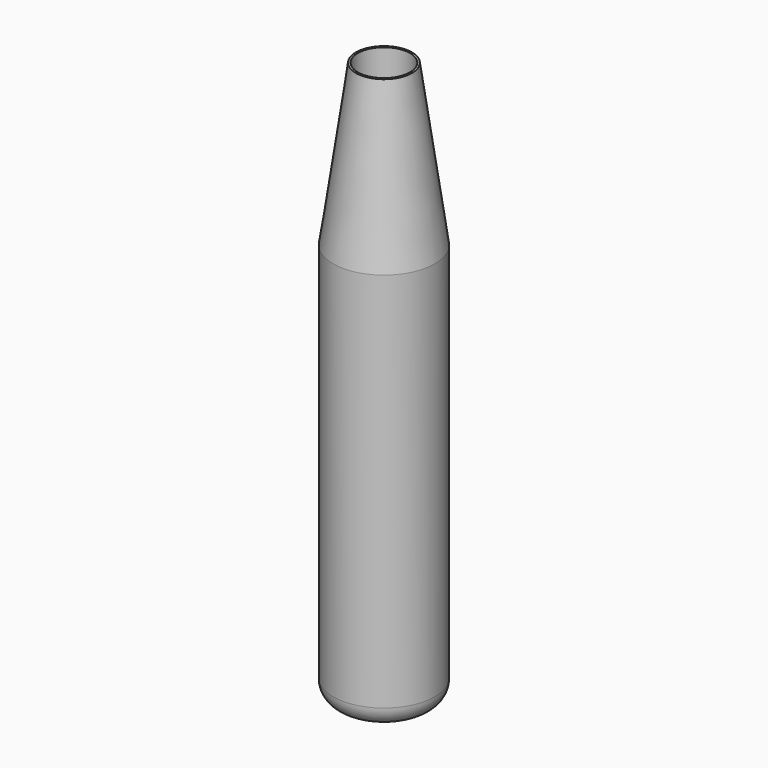
from build123d import *

# Parameters (mm, degrees)
F3_D     = 13
F3_DEPTH = 50
F3_TIP   = 3.9055940237
F4_R     = 5


with BuildPart() as f1:
    # F0 (on Front) → F1 (revolve)
    with BuildSketch(Plane.XZ):
        Polygon((-12.7, -45.7867538678), (0, -45.7867538678), (0, 94.2131613321), (-7, 94.2131613321), (-12.7, 54.2132461322), align=None)
    revolve(axis=Axis((0, 0, 24.2132037321), (0, 0, 1)))

    # F3
    with Locations(Plane.XY.offset(94.2131613321)):
        with Locations((0, 0)):
            Hole(F3_D / 2, depth=F3_DEPTH)
            with Locations((0, 0, -(F3_DEPTH + F3_TIP / 2))):  # 118° drill point
                Cone(0, F3_D / 2, F3_TIP, mode=Mode.SUBTRACT)

    # F4
    f4_edges = [f1.edges().sort_by_distance(p)[0] for p in [
        (12.7, 0, -45.786754),
    ]]
    fillet(f4_edges, radius=F4_R)


solid = f1.part
